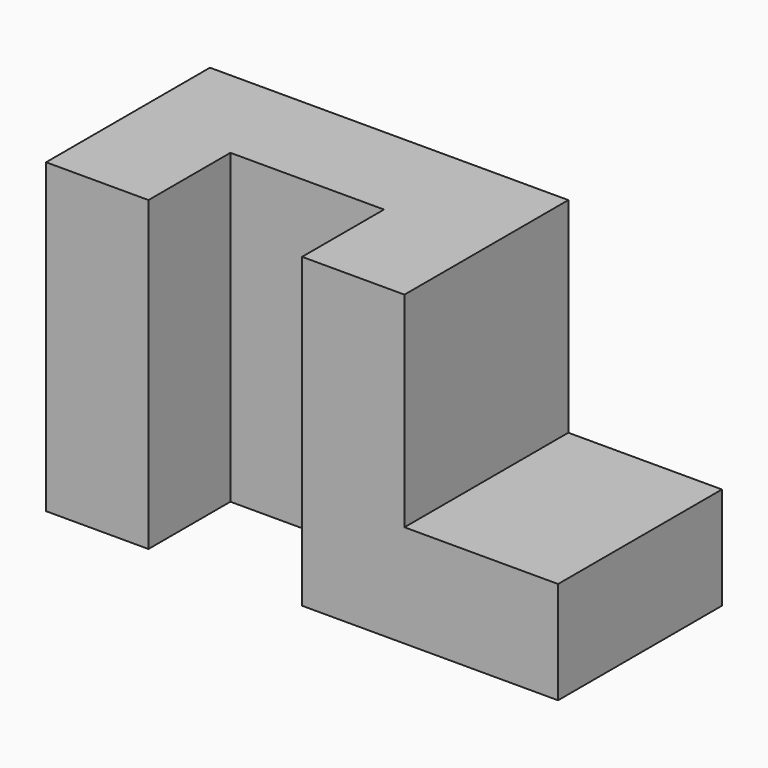
from build123d import *

# Parameters (mm, degrees)
F1_DEPTH = 38.1
F0_W     = 19.05
F0_H     = 25.4
F2_DEPTH = 12.7


with BuildPart() as f1:
    # F0 (on Top) → F1 (new body)
    with BuildSketch(Plane.XY):
        Polygon((0, 25.4), (0, 0), (12.7, 0), (12.7, 12.700001), (31.75, 12.700001), (31.75, 0), (44.45, 0), (44.45, 25.4), align=None)
    extrude(amount=F1_DEPTH)

    # F0 (on Top) → F2 (join)
    with BuildSketch(Plane.XY):
        Polygon((0, 25.4), (0, 0), (12.7, 0), (12.7, 12.700001), (31.75, 12.700001), (31.75, 0), (44.45, 0), (44.45, 25.4), align=None)
        with Locations((53.975, 12.7)):
            Rectangle(F0_W, F0_H)
    extrude(amount=F2_DEPTH)


solid = f1.part
